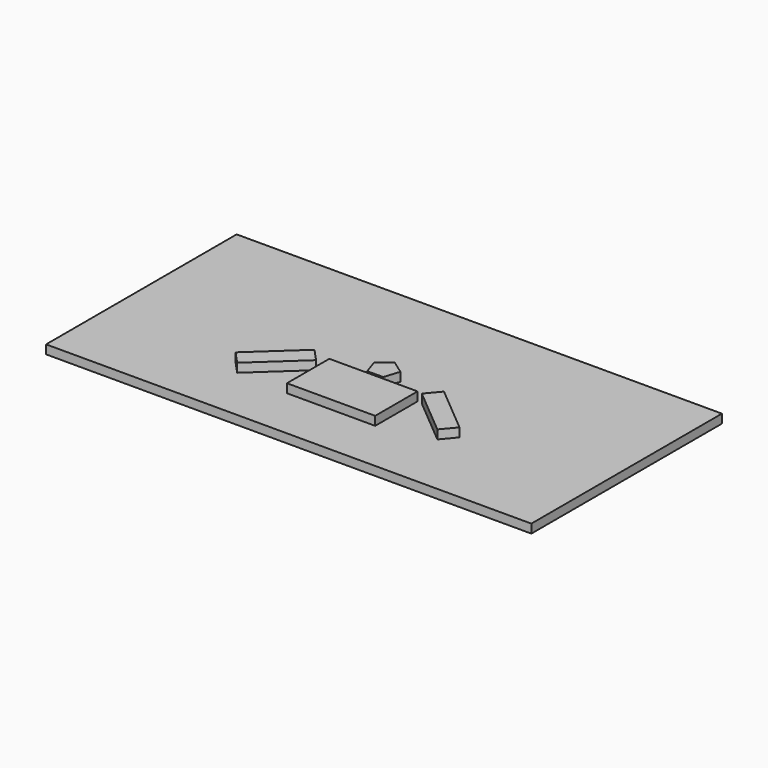
from build123d import *

# Parameters (mm, degrees)
F0_W     = 1397
F0_H     = 685.8
F1_DEPTH = 25.4
F2_W     = 254
F2_H     = 152.4
F3_DEPTH = 25.4


with BuildPart() as f1:
    # F0 (on Top) → F1 (new body)
    with BuildSketch(Plane.XY):
        Rectangle(F0_W, F0_H)
    extrude(amount=F1_DEPTH)


with BuildPart() as f3:
    # F2 (on face) → F3 (new body)
    with BuildSketch(Plane.XY.offset(25.4)):
        with Locations((0, -114.3)):
            Rectangle(F2_W, F2_H)
        Polygon((23.346336, -31.545698), (37.216156, 12.455528), (-0.345486, 39.243638), (-37.429678, 11.798374), (-22.787327, -31.951842), align=None)
        Polygon((-311.16219, -145.202986), (-276.714394, -182.539153), (-146.03781, -61.971868), (-180.485606, -24.635701), align=None)
        Polygon((277.521163, -154.89545), (310.174774, -115.980392), (173.972072, -1.692755), (141.318461, -40.607813), align=None)
    extrude(amount=F3_DEPTH)


solid = Compound([f1.part, f3.part])
